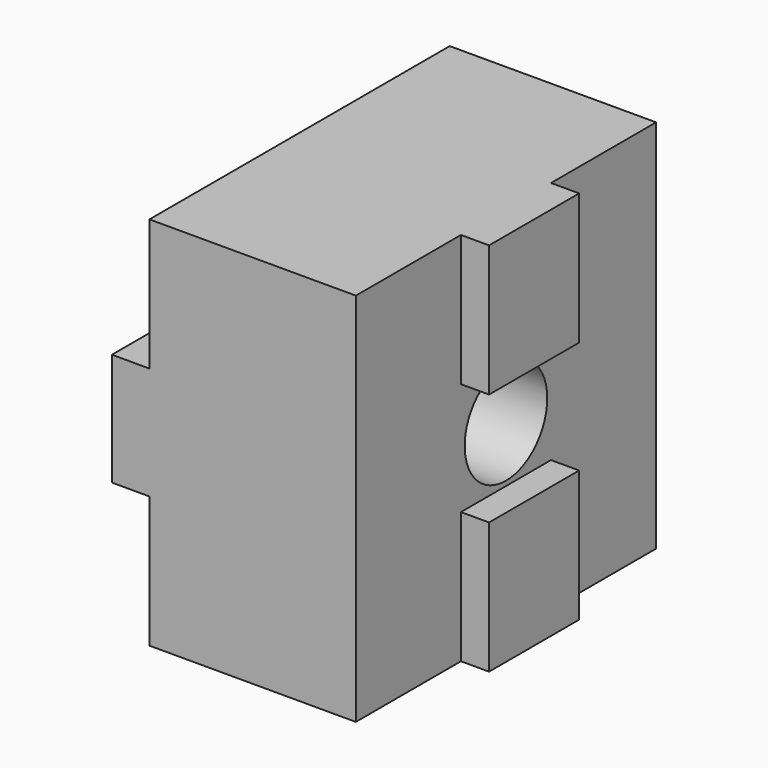
from build123d import *

# Parameters (mm, degrees)
PAD035_DEPTH         = 10
SKETCH097_W          = 2
SKETCH097_H          = 7
SKETCH097_W_2        = 1.5
SKETCH097_H_2        = 6
POCKET055_DEPTH      = 10.001
POCKET055_DEPTH_BACK = 10.001
SKETCH098_R          = 2.75
POCKET056_DEPTH      = 2.001
POCKET056_DEPTH_BACK = 12.501


with BuildPart() as part:
    # Sketch096 → Pad035 (new body, symmetric)
    with BuildSketch(Plane.XY):
        Polygon((-2, 10), (11, 10), (11, 3), (12.5, 3), (12.5, -3), (11, -3), (11, -10), (-2, -10), (-2, -3), (0, -3), (0, 3), (-2, 3), align=None)
    extrude(amount=PAD035_DEPTH, both=True)

    # Sketch097 → Pocket055 (cut, two sides)
    with BuildSketch(Plane.XZ) as pocket055_sk:
        with Locations((-1, -6.5)):
            Rectangle(SKETCH097_W, SKETCH097_H)
        with Locations((-1, 6.5)):
            Rectangle(SKETCH097_W, SKETCH097_H)
        with Locations((11.75, 0)):
            Rectangle(SKETCH097_W_2, SKETCH097_H_2)
    extrude(amount=-POCKET055_DEPTH, mode=Mode.SUBTRACT)
    extrude(pocket055_sk.sketch, amount=POCKET055_DEPTH_BACK, mode=Mode.SUBTRACT)

    # Sketch098 → Pocket056 (cut, two sides)
    with BuildSketch(Plane.YZ) as pocket056_sk:
        Circle(SKETCH098_R)
    extrude(amount=-POCKET056_DEPTH, mode=Mode.SUBTRACT)
    extrude(pocket056_sk.sketch, amount=POCKET056_DEPTH_BACK, mode=Mode.SUBTRACT)


with BuildPart() as part_1:
    # Body022016 placement: moved
    add(part.part.moved(Location((137, 0, -132))))


solid = part_1.part
